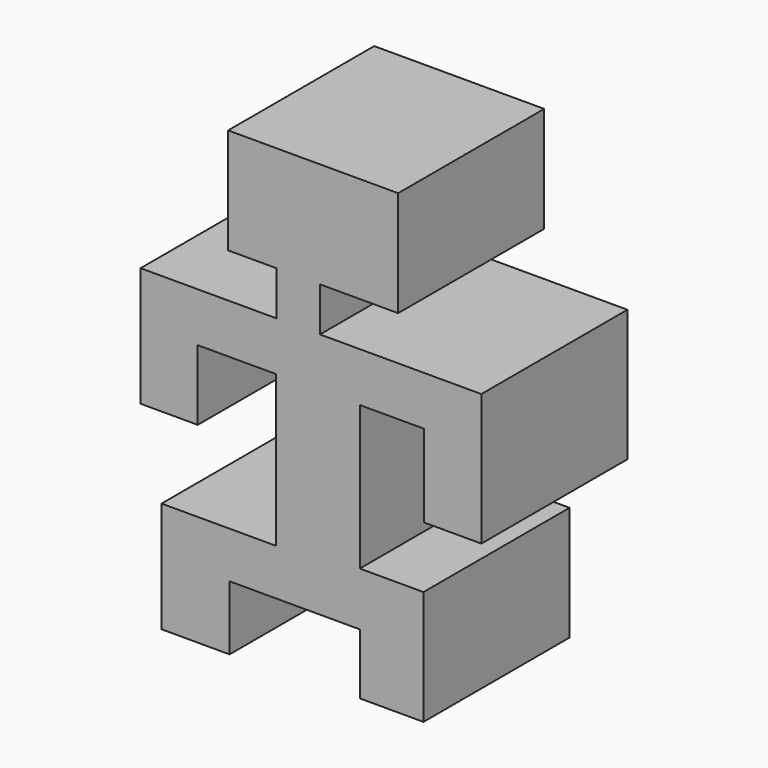
from build123d import *

# Parameters (mm, degrees)
F1_DEPTH = 50.8


with BuildPart() as f1:
    # F0 (on Front) → F1 (new body)
    with BuildSketch(Plane.XZ):
        Polygon((27.877698, 62.196452), (-19.423811, 62.196452), (-19.423811, 32.809131), (-5.93785, 32.809131), (-5.93785, 20.530868), (-43.779057, 20.530868), (-43.779057, -12.68083), (-27.877698, -12.68083), (-27.877698, 6.843622), (-6.139133, 6.843622), (-6.139133, -35.224527), (-37.941851, -35.224527), (-37.941851, -66.020831), (-19.021245, -66.020831), (-19.021245, -48.106641), (17.209699, -48.106641), (17.209699, -65.014414), (34.922604, -65.014414), (34.922604, -33.211701), (17.209699, -33.211701), (17.209699, 6.843622), (35.123885, 6.843622), (35.123885, -16.102642), (51.025249, -16.102642), (51.025249, 20.530868), (6.139132, 20.530868), (6.139132, 32.809131), (27.877698, 32.809131), align=None)
    extrude(amount=F1_DEPTH)


solid = f1.part
